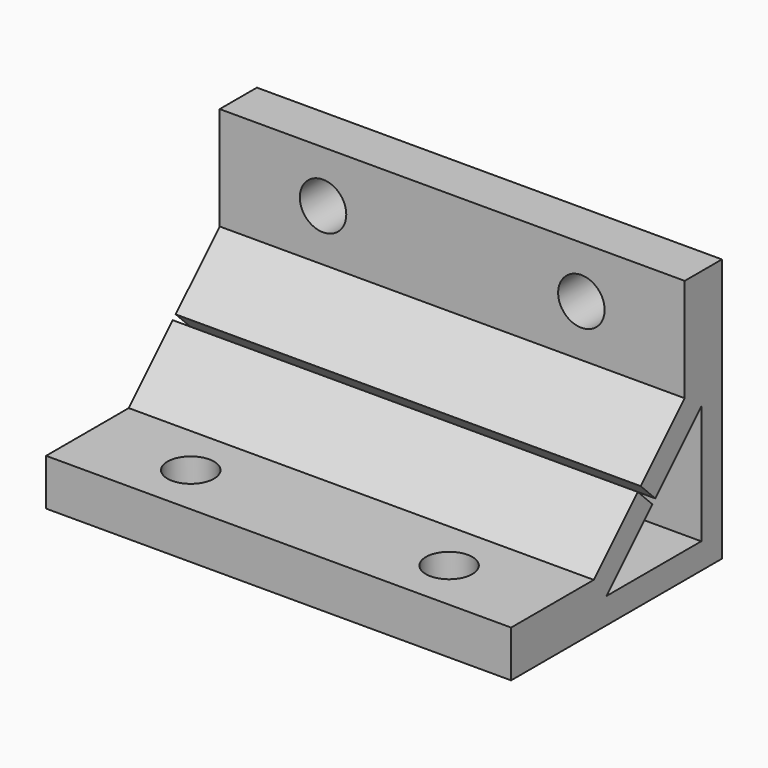
from build123d import *

# Parameters (mm, degrees)
F1_DEPTH   = 90
F4_D       = 9
F4_ON_F2_D = 9


with BuildPart() as f1:
    # F0 (on Right) → F1 (new body)
    with BuildSketch(Plane.YZ):
        Polygon((-51, 0), (0, 0), (0, 51), (-9, 51), (-9, 31), (-19.6464466094, 20.3535533906), (-16.1109127035, 16.8180194847), (-5, 27.9289321881), (-5, 5), (-27.9289321881, 5), (-16.8180194847, 16.1109127035), (-20.3535533906, 19.6464466094), (-31, 9), (-51, 9), align=None)
    extrude(amount=F1_DEPTH)

    # F4 (through all)
    with Locations(Plane(origin=(0, 0, 0), x_dir=(1, 0, 0), z_dir=(0, 0, -1))):
        with Locations((70, 41), (20, 41)):
            Hole(F4_D / 2)

    # F4 on F2 (through all)
    with Locations(Plane(origin=(0, 0, 0), x_dir=(-1, 0, 0), z_dir=(0, 1, 0))):
        with Locations((-20, 41), (-70, 41)):
            Hole(F4_ON_F2_D / 2)


solid = f1.part
